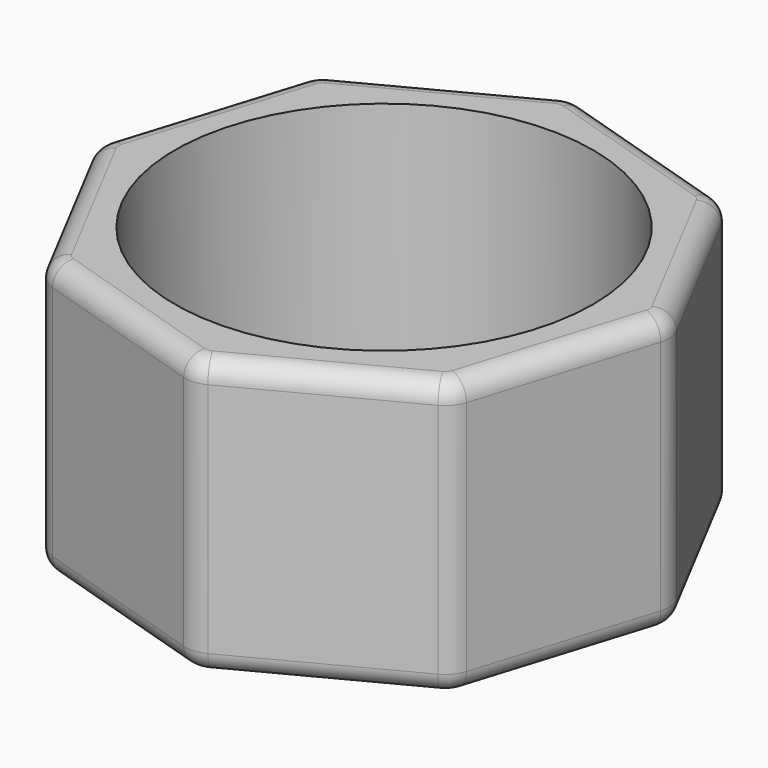
from build123d import *

# Parameters (mm, degrees)
PAD_DEPTH    = 28
SKETCH001_R  = 21.2
POCKET_DEPTH = 24
FILLET_R     = 3
FILLET001_R  = 2
FILLET002_R  = 2


with BuildPart() as part:
    # Sketch (on XY_Plane of Origin) → Pad (new body)
    with BuildSketch(Plane.XY):
        Polygon((21.125697, -17.605536), (27.387118, 2.48913), (17.605536, 21.125697), (-2.48913, 27.387118), (-21.125697, 17.605536), (-27.387118, -2.48913), (-17.605536, -21.125697), (2.48913, -27.387118), align=None)
    extrude(amount=PAD_DEPTH)

    # Sketch001 (on Face10 of Pad) → Pocket (cut)
    with BuildSketch(Plane.XY.offset(28)):
        Circle(SKETCH001_R)
    extrude(amount=-POCKET_DEPTH, mode=Mode.SUBTRACT)

    # Fillet
    fillet_edges = [part.edges().sort_by_distance(p)[0] for p in [
        (2.48913, -27.387118, 14),
        (21.125697, -17.605536, 14),
        (27.387118, 2.48913, 14),
        (17.605536, 21.125697, 14),
        (-2.48913, 27.387118, 14),
        (-21.125697, 17.605536, 14),
        (-27.387118, -2.48913, 14),
        (-17.605536, -21.125697, 14),
    ]]
    fillet(fillet_edges, radius=FILLET_R)

    # Fillet001
    fillet001_edges = [part.edges().sort_by_distance(p)[0] for p in [
        (-24.256408, 7.558203, 0),
        (-11.807414, 22.496327, 0),
        (7.558203, 24.256408, 0),
        (22.496327, 11.807414, 0),
        (24.256408, -7.558203, 0),
        (11.807414, -22.496327, 0),
        (-7.558203, -24.256408, 0),
        (-22.496327, -11.807414, 0),
    ]]
    fillet(fillet001_edges, radius=FILLET001_R)

    # Fillet002
    fillet002_edges = [part.edges().sort_by_distance(p)[0] for p in [
        (22.496327, 11.807414, 28),
        (24.256408, -7.558203, 28),
        (11.807414, -22.496327, 28),
        (7.558203, 24.256408, 28),
        (-11.807414, 22.496327, 28),
        (-24.256408, 7.558203, 28),
        (-22.496327, -11.807414, 28),
        (-7.558203, -24.256408, 28),
    ]]
    fillet(fillet002_edges, radius=FILLET002_R)


solid = part.part
